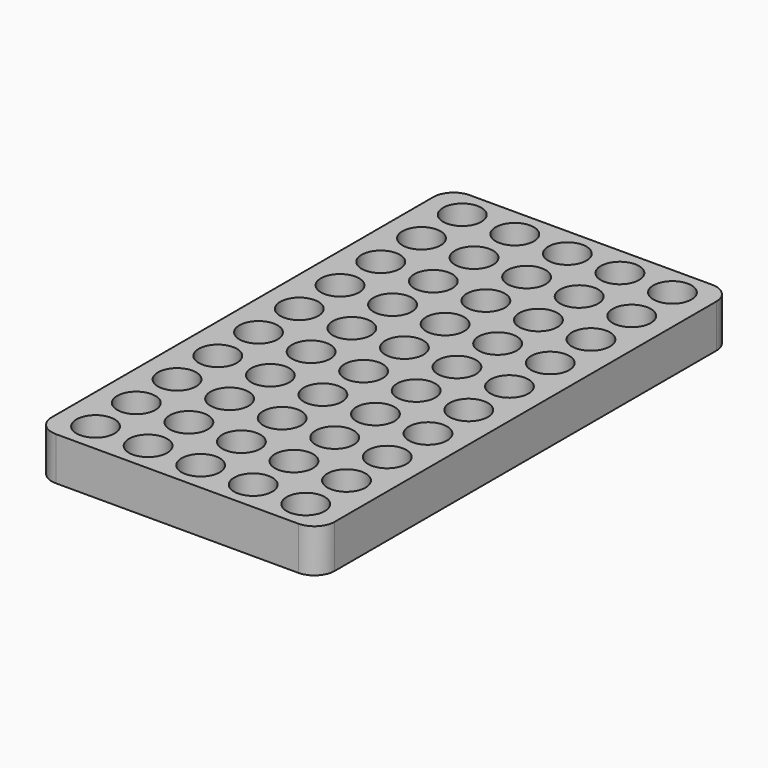
from build123d import *

# Parameters (mm, degrees)
F0_R     = 6
F1_DEPTH = 12.7
F3_DEPTH = 0.9


with BuildPart() as f1:
    # F0 (on Top) → F1 (new body)
    with BuildSketch(Plane.XY):
        with BuildLine():
            Line((38.1, 81.28), (-38.1, 81.28))
            ThreePointArc((-38.1, 81.28), (-42.590128, 79.420128), (-44.45, 74.93))
            Line((-44.45, 74.93), (-44.45, -74.93))
            ThreePointArc((-44.45, -74.93), (-42.590128, -79.420128), (-38.1, -81.28))
            Line((-38.1, -81.28), (38.1, -81.28))
            ThreePointArc((38.1, -81.28), (42.590128, -79.420128), (44.45, -74.93))
            Line((44.45, -74.93), (44.45, 74.93))
            ThreePointArc((44.45, 74.93), (42.590128, 79.420128), (38.1, 81.28))
        make_face()
        with Locations((-33.02, -72)):
            Circle(F0_R, mode=Mode.SUBTRACT)
        with Locations((-33.02, -56)):
            Circle(F0_R, mode=Mode.SUBTRACT)
        with Locations((-16.51, -72)):
            Circle(F0_R, mode=Mode.SUBTRACT)
        with Locations((-16.51, -56)):
            Circle(F0_R, mode=Mode.SUBTRACT)
        with Locations((-33.02, -40)):
            Circle(F0_R, mode=Mode.SUBTRACT)
        with Locations((-33.02, -24)):
            Circle(F0_R, mode=Mode.SUBTRACT)
        with Locations((-33.02, -8)):
            Circle(F0_R, mode=Mode.SUBTRACT)
        with Locations((-16.51, -40)):
            Circle(F0_R, mode=Mode.SUBTRACT)
        with Locations((-16.51, -24)):
            Circle(F0_R, mode=Mode.SUBTRACT)
        with Locations((-16.51, -8)):
            Circle(F0_R, mode=Mode.SUBTRACT)
        with Locations((0, -72)):
            Circle(F0_R, mode=Mode.SUBTRACT)
        with Locations((16.51, -72)):
            Circle(F0_R, mode=Mode.SUBTRACT)
        with Locations((0, -56)):
            Circle(F0_R, mode=Mode.SUBTRACT)
        with Locations((16.51, -56)):
            Circle(F0_R, mode=Mode.SUBTRACT)
        with Locations((33.02, -72)):
            Circle(F0_R, mode=Mode.SUBTRACT)
        with Locations((33.02, -56)):
            Circle(F0_R, mode=Mode.SUBTRACT)
        with Locations((0, -40)):
            Circle(F0_R, mode=Mode.SUBTRACT)
        with Locations((0, -24)):
            Circle(F0_R, mode=Mode.SUBTRACT)
        with Locations((16.51, -40)):
            Circle(F0_R, mode=Mode.SUBTRACT)
        with Locations((16.51, -24)):
            Circle(F0_R, mode=Mode.SUBTRACT)
        with Locations((0, -8)):
            Circle(F0_R, mode=Mode.SUBTRACT)
        with Locations((16.51, -8)):
            Circle(F0_R, mode=Mode.SUBTRACT)
        with Locations((33.02, -40)):
            Circle(F0_R, mode=Mode.SUBTRACT)
        with Locations((33.02, -24)):
            Circle(F0_R, mode=Mode.SUBTRACT)
        with Locations((33.02, -8)):
            Circle(F0_R, mode=Mode.SUBTRACT)
        with Locations((-33.02, 8)):
            Circle(F0_R, mode=Mode.SUBTRACT)
        with Locations((-33.02, 24)):
            Circle(F0_R, mode=Mode.SUBTRACT)
        with Locations((-33.02, 40)):
            Circle(F0_R, mode=Mode.SUBTRACT)
        with Locations((-16.51, 8)):
            Circle(F0_R, mode=Mode.SUBTRACT)
        with Locations((-16.51, 24)):
            Circle(F0_R, mode=Mode.SUBTRACT)
        with Locations((-16.51, 40)):
            Circle(F0_R, mode=Mode.SUBTRACT)
        with Locations((-33.02, 56)):
            Circle(F0_R, mode=Mode.SUBTRACT)
        with Locations((-33.02, 72)):
            Circle(F0_R, mode=Mode.SUBTRACT)
        with Locations((-16.51, 56)):
            Circle(F0_R, mode=Mode.SUBTRACT)
        with Locations((-16.51, 72)):
            Circle(F0_R, mode=Mode.SUBTRACT)
        with Locations((0, 8)):
            Circle(F0_R, mode=Mode.SUBTRACT)
        with Locations((16.51, 8)):
            Circle(F0_R, mode=Mode.SUBTRACT)
        with Locations((0, 24)):
            Circle(F0_R, mode=Mode.SUBTRACT)
        with Locations((0, 40)):
            Circle(F0_R, mode=Mode.SUBTRACT)
        with Locations((16.51, 24)):
            Circle(F0_R, mode=Mode.SUBTRACT)
        with Locations((16.51, 40)):
            Circle(F0_R, mode=Mode.SUBTRACT)
        with Locations((33.02, 8)):
            Circle(F0_R, mode=Mode.SUBTRACT)
        with Locations((33.02, 24)):
            Circle(F0_R, mode=Mode.SUBTRACT)
        with Locations((33.02, 40)):
            Circle(F0_R, mode=Mode.SUBTRACT)
        with Locations((0, 56)):
            Circle(F0_R, mode=Mode.SUBTRACT)
        with Locations((16.51, 56)):
            Circle(F0_R, mode=Mode.SUBTRACT)
        with Locations((0, 72)):
            Circle(F0_R, mode=Mode.SUBTRACT)
        with Locations((16.51, 72)):
            Circle(F0_R, mode=Mode.SUBTRACT)
        with Locations((33.02, 56)):
            Circle(F0_R, mode=Mode.SUBTRACT)
        with Locations((33.02, 72)):
            Circle(F0_R, mode=Mode.SUBTRACT)
    extrude(amount=F1_DEPTH)

    # F2 (on face) → F3 (join)
    with BuildSketch(Plane(origin=(0, 0, 0), x_dir=(1, 0, 0), z_dir=(0, 0, -1))):
        with BuildLine():
            Line((38.1, 81.28), (-38.1, 81.28))
            ThreePointArc((-38.1, 81.28), (-42.590128, 79.420128), (-44.45, 74.93))
            Line((-44.45, 74.93), (-44.45, -74.93))
            ThreePointArc((-44.45, -74.93), (-42.590128, -79.420128), (-38.1, -81.28))
            Line((-38.1, -81.28), (38.1, -81.28))
            ThreePointArc((38.1, -81.28), (42.590128, -79.420128), (44.45, -74.93))
            Line((44.45, -74.93), (44.45, 74.93))
            ThreePointArc((44.45, 74.93), (42.590128, 79.420128), (38.1, 81.28))
        make_face()
    extrude(amount=F3_DEPTH)


solid = f1.part
